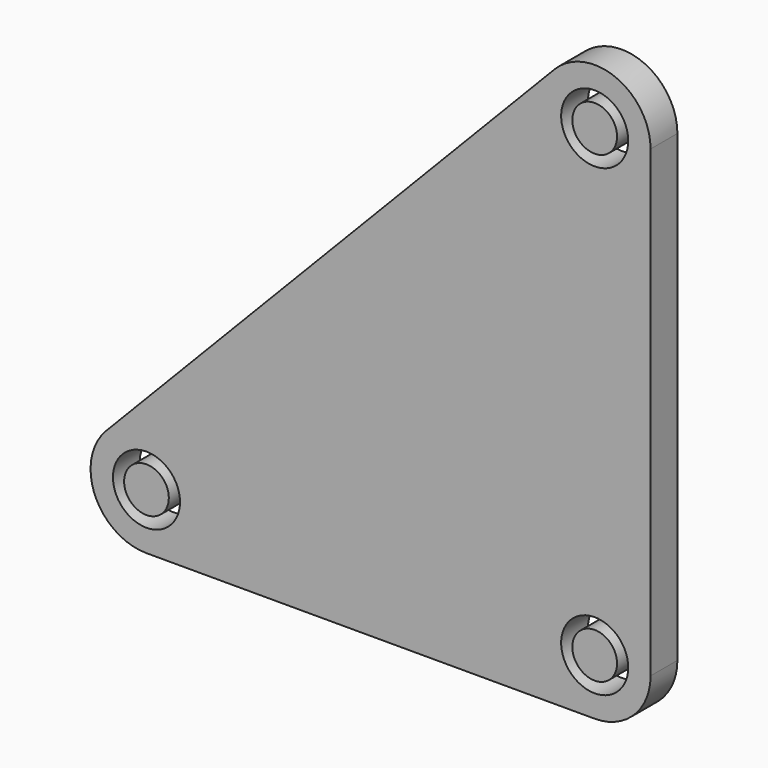
from build123d import *

# Parameters (mm, degrees)
F0_R     = 3
F0_R_2   = 2
F1_DEPTH = 3


with BuildPart() as f1:
    # F0 (on Front) → F1 (new body)
    with BuildSketch(Plane.XZ):
        with BuildLine():
            Line((-3.595663, 44.974364), (-43.695663, 3.474364))
            ThreePointArc((-43.695663, 3.474364), (-44.702815, -1.95297), (-40.1, -5))
            Line((-40.1, -5), (0, -5))
            ThreePointArc((0, -5), (3.535534, -3.535534), (5, 0))
            Line((5, 0), (5, 41.5))
            ThreePointArc((5, 41.5), (1.873724, 46.13564), (-3.595663, 44.974364))
        make_face()
        with Locations((-40.1, 0)):
            Circle(F0_R, mode=Mode.SUBTRACT)
        Circle(F0_R, mode=Mode.SUBTRACT)
        with Locations((0, 41.5)):
            Circle(F0_R, mode=Mode.SUBTRACT)
        with Locations((-40.1, 0)):
            Circle(F0_R_2)
        Circle(F0_R_2)
        with Locations((0, 41.5)):
            Circle(F0_R_2)
    extrude(amount=F1_DEPTH)


solid = f1.part
